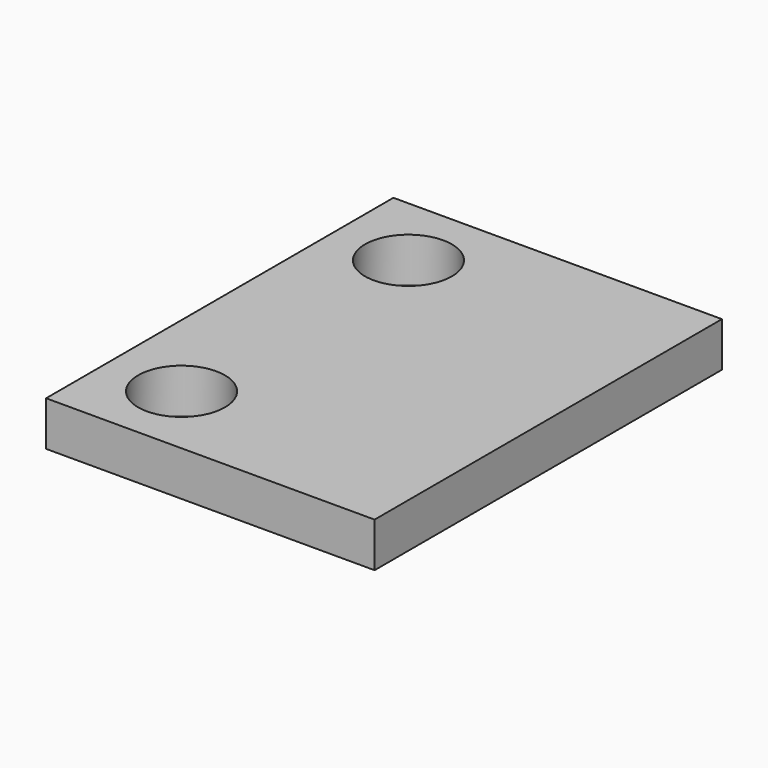
from build123d import *

# Parameters (mm, degrees)
SKETCH_W  = 11.35
SKETCH_H  = 15
SKETCH_R  = 1.5
PAD_DEPTH = 1.54


with BuildPart() as part:
    # Sketch → Pad (new body)
    with BuildSketch(Plane.XY):
        Rectangle(SKETCH_W, SKETCH_H)
        with Locations((-3.075, 4.9)):
            Circle(SKETCH_R, mode=Mode.SUBTRACT)
        with Locations((-3.075, -4.9)):
            Circle(SKETCH_R, mode=Mode.SUBTRACT)
    extrude(amount=PAD_DEPTH)


solid = part.part
